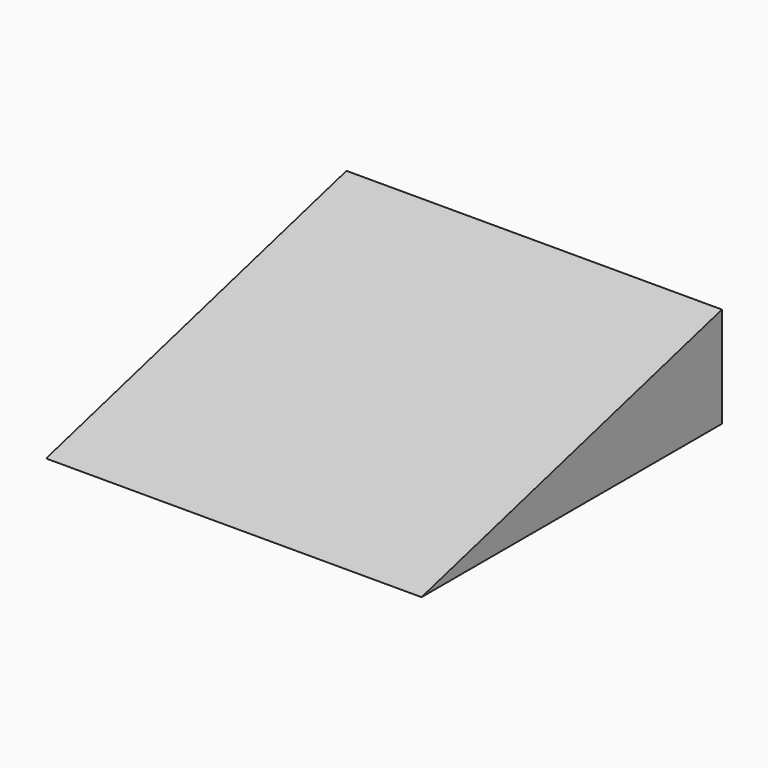
from build123d import *

# Parameters (mm, degrees)
F1_DEPTH = 127
F2_W     = 68.072
F2_H     = 13.462
F3_DEPTH = 13.462
F5_DEPTH = 12.7


with BuildPart() as f1:
    # F0 (on Right) → F1 (new body)
    with BuildSketch(Plane.YZ):
        Polygon((60.512159, 34.029547), (-66.487841, 0), (60.512159, 0), align=None)
    extrude(amount=F1_DEPTH)

    # F2 (on face) → F3 (cut)
    with BuildSketch(Plane(origin=(0, 0, 0), x_dir=(0, -1, 0), z_dir=(-1, 0, 0))):
        with Locations((-23.936159, 6.731)):
            Rectangle(F2_W, F2_H)
    extrude(amount=-F3_DEPTH, mode=Mode.SUBTRACT)

    # F4 (on face) → F5 (cut)
    with BuildSketch(Plane(origin=(0, 60.512159, 0), x_dir=(-1, 0, 0), z_dir=(0, 1, 0))):
        with BuildLine():
            ThreePointArc((-101.6, 23.364774), (-107.95, 17.014774), (-101.6, 10.664774))
            Line((-101.6, 10.664774), (-25.4, 10.664774))
            ThreePointArc((-25.4, 10.664774), (-19.05, 17.014774), (-25.4, 23.364774))
            Line((-25.4, 23.364774), (-101.6, 23.364774))
        make_face()
    extrude(amount=-F5_DEPTH, mode=Mode.SUBTRACT)


solid = f1.part
